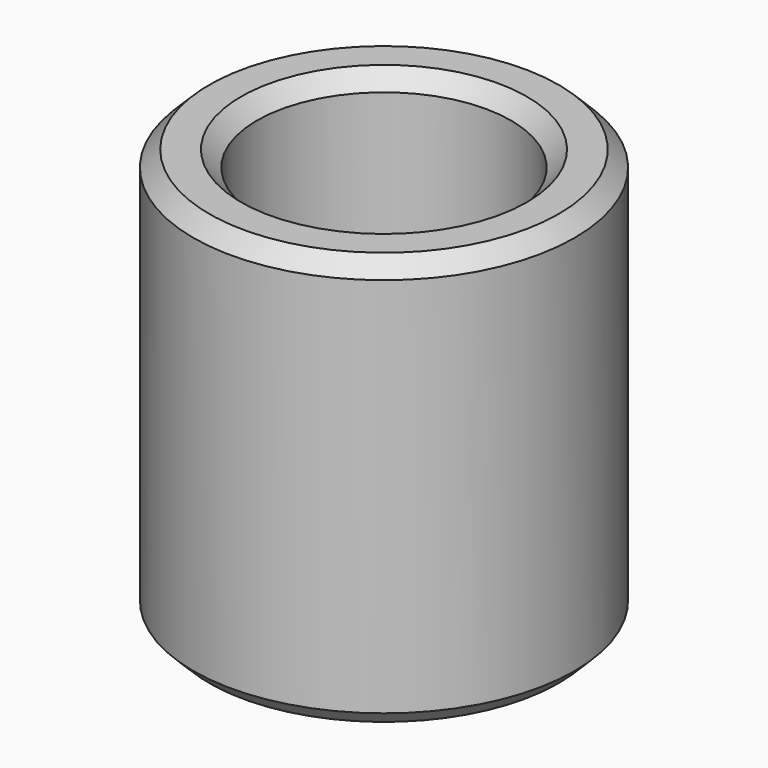
from build123d import *

# Parameters (mm, degrees)
F0_R     = 6
F0_R_2   = 4
F1_DEPTH = 13
F2_SIZE  = 0.5
F3_SIZE  = 0.5
F4_SIZE  = 0.5


with BuildPart() as f1:
    # F0 (on Top) → F1 (new body)
    with BuildSketch(Plane.XY):
        Circle(F0_R)
        Circle(F0_R_2, mode=Mode.SUBTRACT)
    extrude(amount=F1_DEPTH)

    # F2
    f2_edges = [f1.edges().sort_by_distance(p)[0] for p in [
        (-4, 0, 13),
    ]]
    chamfer(f2_edges, length=F2_SIZE)

    # F3
    f3_edges = [f1.edges().sort_by_distance(p)[0] for p in [
        (-4, 0, 0),
    ]]
    chamfer(f3_edges, length=F3_SIZE)

    # F4
    f4_edges = [f1.edges().sort_by_distance(p)[0] for p in [
        (-6, 0, 0),
        (-6, 0, 13),
    ]]
    chamfer(f4_edges, length=F4_SIZE)


solid = f1.part
